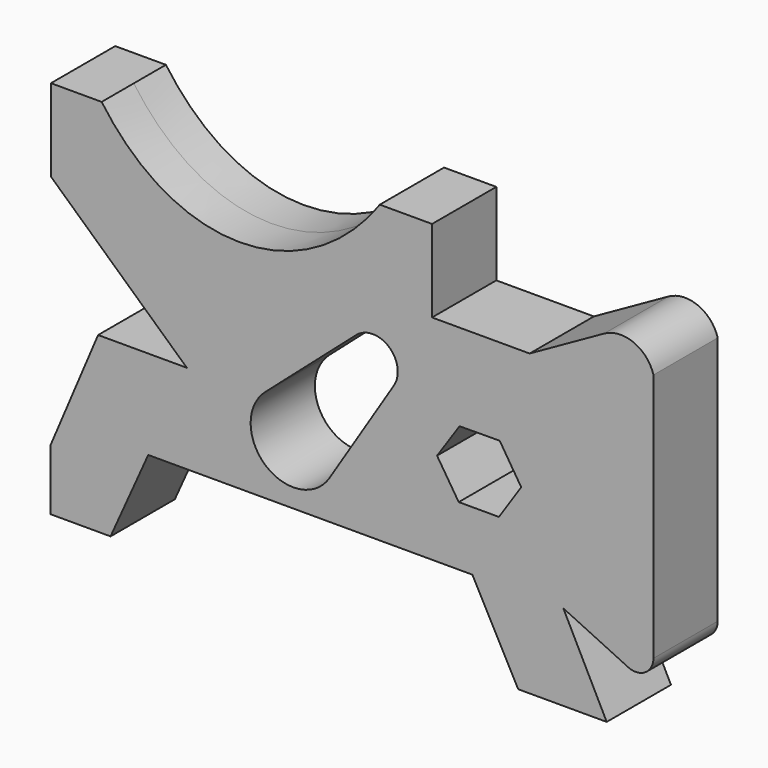
from build123d import *

# Parameters (mm, degrees)
F1_DEPTH = 25.4


with BuildPart() as f1:
    # F0 (on Front) → F1 (new body, symmetric)
    with BuildSketch(Plane.XZ):
        with BuildLine():
            Line((-266.938031, 161.805029), (-266.938031, 123.705029))
            Line((-266.938031, 123.705029), (-228.838031, 123.705029))
            Line((-228.838031, 123.705029), (-204.99998, 176.804662))
            Line((-204.99998, 176.804662), (0, 176.804662))
            Line((0, 176.804662), (28.947621, 122.459758))
            Line((28.947621, 122.459758), (84.925383, 122.459758))
            Line((84.925383, 122.459758), (57.480857, 176.804662))
            Line((57.480857, 176.804662), (98.995887, 157.105953))
            ThreePointArc((98.995887, 157.105953), (109.502053, 158.161564), (114.473462, 167.477085))
            Line((114.473462, 167.477085), (114.473462, 325.248539))
            ThreePointArc((114.473462, 325.248539), (102.023839, 339.250338), (83.320737, 338.137943))
            Line((83.320737, 338.137943), (36.185727, 311.703503))
            Line((36.185727, 311.703503), (-25.528118, 311.703503))
            Line((-25.528118, 311.703503), (-25.528118, 363.759758))
            Line((-25.528118, 363.759758), (-58.593817, 363.759758))
            add(Edge.make_bspline(
                [(-234.475195, 363.759758), (-185.756028, 295.08689), (-104.223274, 299.842954), (-58.593817, 363.759758)],
                knots=[0, 0, 0, 0, 175.881378, 175.881378, 175.881378, 175.881378], degree=3))
            Line((-234.475195, 363.759758), (-266.526538, 363.759758))
            Line((-266.526538, 363.759758), (-266.526538, 311.703503))
            Line((-266.526538, 311.703503), (-180.580374, 233.25789))
            Line((-180.580374, 233.25789), (-236.713991, 233.25789))
            Line((-236.713991, 233.25789), (-266.938031, 161.805029))
        make_face()
        with BuildLine():
            Line((-131.053451, 235.890723), (-73.508778, 286.338449))
            ThreePointArc((-73.508778, 286.338449), (-52.76981, 286.47692), (-49.644388, 265.974343))
            Line((-49.644388, 265.974343), (-90.412526, 201.210762))
            ThreePointArc((-90.412526, 201.210762), (-130.780809, 195.057003), (-131.053451, 235.890723))
        make_face(mode=Mode.SUBTRACT)
        Polygon((30.861216, 235.530361), (16.744013, 214.414855), (-8.655987, 214.414855), (-22.372372, 235.7929), (-8.13638, 256.828502), (17.263144, 256.983855), align=None, mode=Mode.SUBTRACT)
    extrude(amount=F1_DEPTH, both=True)


solid = f1.part
